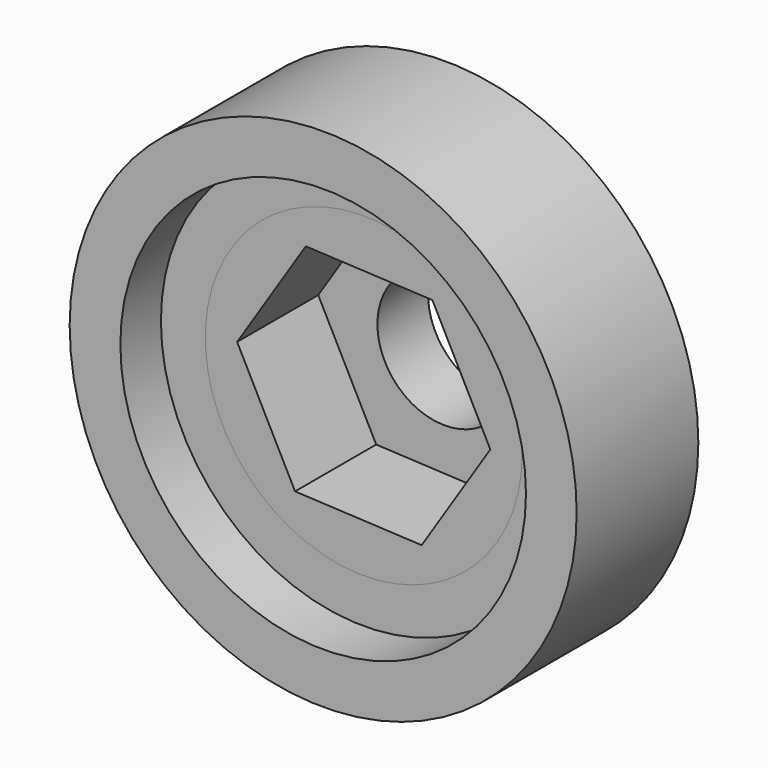
from build123d import *

# Parameters (mm, degrees)
F0_R     = 7.9375
F0_R_2   = 3.3782
F1_DEPTH = 3.175
F0_R_3   = 12.7
F0_R_4   = 10.16
F2_DEPTH = 7.62
F3_DEPTH = 5.08
F4_DEPTH = 5.08
F5_SIZE  = 0.762


with BuildPart() as f1:
    # F0 (on Front) → F1 (new body)
    with BuildSketch(Plane.XZ):
        Circle(F0_R)
        Polygon((-3.4397021091, -5.3374697952), (-6.3422354891, 0.3101345103), (-2.90253338, 5.6476043055), (3.4397021091, 5.3374697952), (6.3422354891, -0.3101345103), (2.90253338, -5.6476043055), align=None, mode=Mode.SUBTRACT)
        Polygon((-2.90253338, 5.6476043055), (-6.3422354891, 0.3101345103), (-3.4397021091, -5.3374697952), (2.90253338, -5.6476043055), (6.3422354891, -0.3101345103), (3.4397021091, 5.3374697952), align=None)
        Circle(F0_R_2, mode=Mode.SUBTRACT)
    extrude(amount=-F1_DEPTH)



with BuildPart() as f2:
    # F0 (on Front) → F2 (new body)
    with BuildSketch(Plane.XZ):
        Circle(F0_R_3)
        Circle(F0_R_4, mode=Mode.SUBTRACT)
    extrude(amount=F2_DEPTH)


with BuildPart() as f1_1:
    add(f1.part)

    add(f2.part)  # F3 merges F2
    # F0 (on Front) → F3 (join)
    with BuildSketch(Plane.XZ):
        Circle(F0_R_4)
        Circle(F0_R, mode=Mode.SUBTRACT)
    extrude(amount=F3_DEPTH)

    # F5
    f5_edges = [f1_1.edges().sort_by_distance(p)[0] for p in [
        (-7.9375, 3.175, 0),
    ]]
    chamfer(f5_edges, length=F5_SIZE)


with BuildPart() as f4:
    # F0 (on Front) → F4 (new body)
    with BuildSketch(Plane.XZ):
        Circle(F0_R)
        Polygon((-3.4397021091, -5.3374697952), (-6.3422354891, 0.3101345103), (-2.90253338, 5.6476043055), (3.4397021091, 5.3374697952), (6.3422354891, -0.3101345103), (2.90253338, -5.6476043055), align=None, mode=Mode.SUBTRACT)
    extrude(amount=F4_DEPTH)


solid = Compound([f1_1.part, f4.part])
